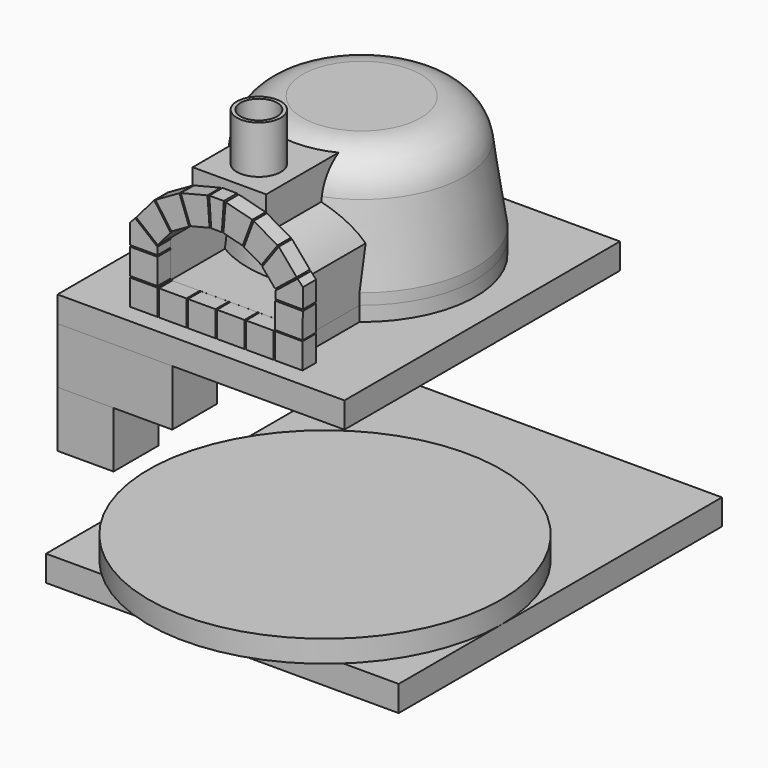
from build123d import *

# Parameters (mm, degrees)
F0_R      = 393.7
F1_DEPTH  = 38.1
F1_FACE_R = 393.7
F2_DEPTH  = 393.7
F2_TAPER  = 8.4
F3_R      = 152.4
F5_DEPTH  = 571.5
F7_DEPTH  = 313.7270858023
F8_R      = 63.5
F9_DEPTH  = 233.38389
F10_DEPTH = 50.8
F11_R     = 76.2
F11_R_2   = 63.5
F12_DEPTH = 165.1
F16_W     = 95.25
F16_H     = 88.9
F17_DEPTH = 57.15
F16_H_2   = 88.8147211254
F20_W     = 396.875
F20_H     = 193.675
F20_W_2   = 150.8125
F20_H_2   = 130.175
F21_DEPTH = 193.675
F23_DEPTH = 88.9
F24_W     = 193.675
F24_H     = 193.675
F24_W_2   = 130.175
F24_H_2   = 130.175
F25_DEPTH = 193.675
F19_W     = 1219.2
F19_H     = 1397
F26_DEPTH = 88.9
F27_R     = 609.6
F28_DEPTH = 76.2


with BuildPart() as f1:
    # F0 (on Top) → F1 (new body)
    with BuildSketch(Plane.XY):
        Circle(F0_R)
    extrude(amount=F1_DEPTH)

    # F1_face (on face) → F2 (join)
    with BuildSketch(Plane.XY.offset(38.1)):
        Circle(F1_FACE_R)
    extrude(amount=F2_DEPTH, taper=F2_TAPER)

    # F3
    f3_edges = [f1.edges().sort_by_distance(p)[0] for p in [
        (-335.563442, 0, 431.8),
    ]]
    fillet(f3_edges, radius=F3_R)

    # F4 (on Front) → F5 (join)
    with BuildSketch(Plane.XZ):
        with BuildLine():
            Line((-241.3, 0), (0, 0))
            Line((0, 0), (241.3, 0))
            Line((241.3, 0), (241.3, 177.8))
            ThreePointArc((241.3, 177.8), (0, 317.5), (-241.3, 177.8))
            Line((-241.3, 177.8), (-241.3, 0))
        make_face()
        with BuildLine():
            Line((-203.2, 38.1), (-203.2, 167.2373542175))
            ThreePointArc((-203.2, 167.2373542175), (0, 279.4), (203.2, 167.2373542175))
            Line((203.2, 167.2373542175), (203.2, 38.1))
            Line((203.2, 38.1), (-203.2, 38.1))
        make_face(mode=Mode.SUBTRACT)
    extrude(amount=F5_DEPTH)

    # F6 (on face) → F7 (join, up to face)
    with BuildSketch(Plane.XZ.offset(571.5)):
        with BuildLine():
            Line((127, 406.4), (0, 406.4))
            Line((0, 406.4), (-127, 406.4))
            Line((-127, 406.4), (-127, 272.2534450197))
            ThreePointArc((-127, 272.2534450197), (0, 304.4772434248), (127, 272.2534450197))
            Line((127, 272.2534450197), (127, 406.4))
        make_face()
    extrude(amount=-F7_DEPTH)

    # F8 (on face) → F9 (cut)
    with BuildSketch(Plane.XY.offset(406.4)):
        with Locations((0, -444.5)):
            Circle(F8_R)
    extrude(amount=-F9_DEPTH, mode=Mode.SUBTRACT)


with BuildPart() as f10:
    # F10 (new): a face of the model
    f10_faces = [f1.part.faces().sort_by_distance(p)[0] for p in [
        (0, -78.7343872784, 0),
    ]]
    extrude(f10_faces, amount=F10_DEPTH)


with BuildPart() as f12:
    # F11 (on face) → F12 (new body)
    with BuildSketch(Plane.XY.offset(406.4)):
        with Locations((0, -444.5)):
            Circle(F11_R)
        with Locations((0, -444.5)):
            Circle(F11_R_2, mode=Mode.SUBTRACT)
    extrude(amount=F12_DEPTH)


with BuildPart() as f17:
    # F16 (on face) → F17 (new body)
    with BuildSketch(Plane.XZ.offset(571.5)):
        with Locations((-250.825, 87.63)):
            Rectangle(F16_W, F16_H)
    extrude(amount=F17_DEPTH)


with BuildPart() as f17b:
    # F16 (on face) → F17, piece 2 (new body)
    with BuildSketch(Plane.XZ.offset(571.5)):
        Polygon((-298.45, 137.16), (-203.2, 137.16), (-203.2, 162.56), (-279.9308058132, 224.6953814017), (-298.45, 205.2213698626), align=None)
    extrude(amount=F17_DEPTH)


with BuildPart() as f17c:
    # F16 (on face) → F17, piece 3 (new body)
    with BuildSketch(Plane.XZ.offset(571.5)):
        with Locations((-250.825, -6.35)):
            Rectangle(F16_W, F16_H)
    extrude(amount=F17_DEPTH)


with BuildPart() as f17d:
    # F16 (on face) → F17, piece 4 (new body)
    with BuildSketch(Plane.XZ.offset(571.5)):
        with Locations((-150.495, -6.35)):
            Rectangle(F16_W, F16_H)
    extrude(amount=F17_DEPTH)


with BuildPart() as f17e:
    # F16 (on face) → F17, piece 5 (new body)
    with BuildSketch(Plane.XZ.offset(571.5)):
        with Locations((-50.165, -6.3926394373)):
            Rectangle(F16_W, F16_H_2)
    extrude(amount=F17_DEPTH)


with BuildPart() as f17f:
    # F16 (on face) → F17, piece 6 (new body)
    with BuildSketch(Plane.XZ.offset(571.5)):
        with Locations((50.165, -6.3926394373)):
            Rectangle(F16_W, F16_H_2)
    extrude(amount=F17_DEPTH)


with BuildPart() as f17g:
    # F16 (on face) → F17, piece 7 (new body)
    with BuildSketch(Plane.XZ.offset(571.5)):
        with Locations((250.825, -6.3926394373)):
            Rectangle(F16_W, F16_H_2)
    extrude(amount=F17_DEPTH)


with BuildPart() as f17h:
    # F16 (on face) → F17, piece 8 (new body)
    with BuildSketch(Plane.XZ.offset(571.5)):
        with Locations((150.495, -6.3926394373)):
            Rectangle(F16_W, F16_H_2)
    extrude(amount=F17_DEPTH)


with BuildPart() as f17i:
    # F16 (on face) → F17, piece 9 (new body)
    with BuildSketch(Plane.XZ.offset(571.5)):
        Polygon((-276.5945702872, 228.5304897365), (-202.5362449804, 168.5592403779), (-157.664527389, 220.6061931845), (-214.3991652094, 300.6712832393), align=None)
    extrude(amount=F17_DEPTH)


with BuildPart() as f17j:
    # F16 (on face) → F17, piece 10 (new body)
    with BuildSketch(Plane.XZ.offset(571.5)):
        Polygon((-210.122006613, 303.4216771878), (-154.773605293, 225.3128726494), (-94.0282642841, 259.7865760326), (-127.2824433394, 350.4341144425), align=None)
    extrude(amount=F17_DEPTH)


with BuildPart() as f17k:
    # F16 (on face) → F17, piece 11 (new body)
    with BuildSketch(Plane.XZ.offset(571.5)):
        Polygon((-23.0320143219, 279.0853518379), (-30.1862995769, 375.4484061295), (-122.6331221524, 352.5105009135), (-89.634620555, 262.5599134685), align=None)
    extrude(amount=F17_DEPTH)


with BuildPart() as f17l:
    # F16 (on face) → F17, piece 12 (new body)
    with BuildSketch(Plane.XZ.offset(571.5)):
        Polygon((-17.4719436025, 279.5297109173), (0.8876737155, 279.4713960058), (19.2472910336, 279.4130810943), (26.3430174587, 376.8142169835), (1.1971134766, 376.8940869034), (-23.9487905055, 376.9739568233), align=None)
    extrude(amount=F17_DEPTH)


with BuildPart() as f17m:
    # F16 (on face) → F17, piece 13 (new body)
    with BuildSketch(Plane.XZ.offset(571.5)):
        Polygon((95.676649655, 259.1840239711), (156.2017723463, 224.3251341085), (212.0452395799, 302.0807644026), (129.5059921651, 349.618487699), align=None)
    extrude(amount=F17_DEPTH)


with BuildPart() as f17n:
    # F16 (on face) → F17, piece 14 (new body)
    with BuildSketch(Plane.XZ.offset(571.5)):
        Polygon((203.6029234186, 167.2692369293), (278.0407191214, 226.7688240521), (216.3048401215, 299.3032554906), (159.0627371416, 219.6001851575), align=None)
    extrude(amount=F17_DEPTH)


with BuildPart() as f17o:
    # F16 (on face) → F17, piece 15 (new body)
    with BuildSketch(Plane.XZ.offset(571.5)):
        Polygon((299.283010442, 130.1814447638), (204.0349323057, 130.7865161207), (203.4701990392, 41.8883098602), (298.7182771755, 41.2832385032), align=None)
    extrude(amount=F17_DEPTH)


with BuildPart() as f17p:
    # F16 (on face) → F17, piece 16 (new body)
    with BuildSketch(Plane.XZ.offset(571.5)):
        Polygon((124.8699549397, 351.7243668791), (32.5707096832, 375.2490735739), (24.804426796, 278.9334108806), (91.3007120784, 261.9852158741), align=None)
    extrude(amount=F17_DEPTH)


with BuildPart() as f17q:
    # F16 (on face) → F17, piece 17 (new body)
    with BuildSketch(Plane.XZ.offset(571.5)):
        Polygon((299.7476377167, 203.3213388494), (281.3525249782, 222.9125998118), (204.22855514, 161.2659011243), (204.0672027781, 135.8664136213), (299.3152809144, 135.2613422644), align=None)
    extrude(amount=F17_DEPTH)


with BuildPart() as f21:
    # F20 (on offset) → F21 (new body)
    with BuildSketch(Plane(origin=(0, 0, -139.7), x_dir=(1, 0, 0), z_dir=(0, 0, -1))):
        with Locations((-297.65625, 597.69375)):
            Rectangle(F20_W, F20_H)
        with Locations((-388.9375, 597.69375)):
            Rectangle(F20_W_2, F20_H_2, mode=Mode.SUBTRACT)
        with Locations((-206.375, 597.69375)):
            Rectangle(F20_W_2, F20_H_2, mode=Mode.SUBTRACT)
    extrude(amount=F21_DEPTH)


with BuildPart() as f23:
    # F22 (on offset) → F23 (new body)
    with BuildSketch(Plane(origin=(0, 0, -50.8), x_dir=(1, 0, 0), z_dir=(0, 0, -1))):
        Polygon((-496.09375, 694.53125), (-496.09375, -496.09375), (496.09375, -496.09375), (496.09375, 694.53125), (297.65625, 694.53125), align=None)
    extrude(amount=F23_DEPTH)


with BuildPart() as f25:
    # F24 (on face) → F25 (new body)
    with BuildSketch(Plane(origin=(0, 0, -333.375), x_dir=(1, 0, 0), z_dir=(0, 0, -1))):
        with Locations((-399.25625, 597.69375)):
            Rectangle(F24_W, F24_H)
        with Locations((-399.25625, 597.69375)):
            Rectangle(F24_W_2, F24_H_2, mode=Mode.SUBTRACT)
    extrude(amount=F25_DEPTH)


with BuildPart() as f26:
    # F19 (on offset) → F26 (new body)
    with BuildSketch(Plane.XY.offset(-914.4)):
        with Locations((0, 96.4519628315)):
            Rectangle(F19_W, F19_H)
    extrude(amount=-F26_DEPTH)


with BuildPart() as f28:
    # F27 (on offset) → F28 (new body)
    with BuildSketch(Plane.XY.offset(-914.4)):
        with Locations((0, -158.5275032271)):
            Circle(F27_R)
    extrude(amount=F28_DEPTH)


solid = Compound([f1.part, f10.part, f12.part, f17.part, f17b.part, f17c.part, f17d.part, f17e.part, f17f.part, f17g.part, f17h.part, f17i.part, f17j.part, f17k.part, f17l.part, f17m.part, f17n.part, f17o.part, f17p.part, f17q.part, f21.part, f23.part, f25.part, f26.part, f28.part])
